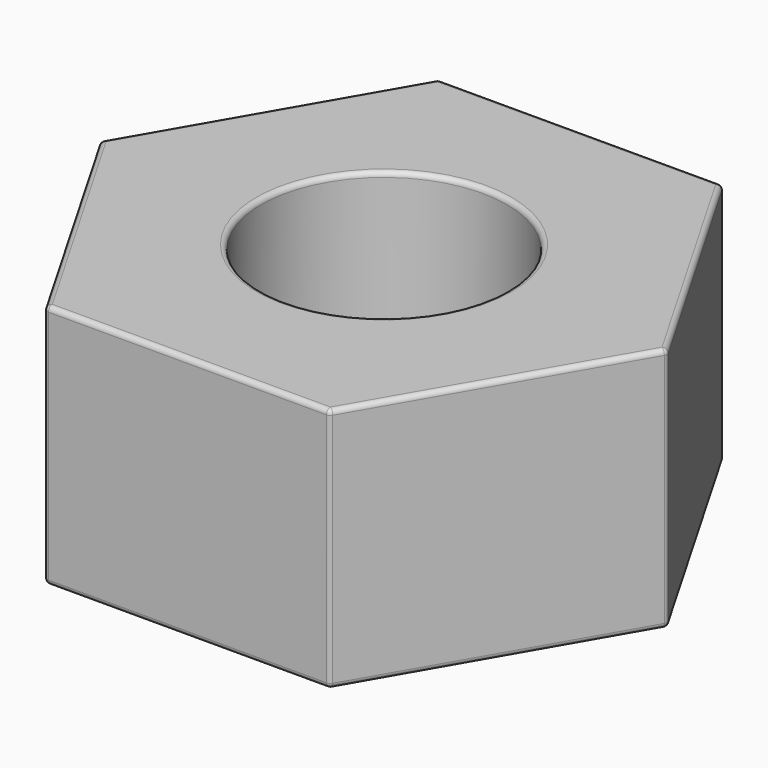
from build123d import *

# Parameters (mm, degrees)
F0_R     = 2.5
F1_DEPTH = 5
F2_R     = 0.1


with BuildPart() as f1:
    # F0 (on Top) → F1 (new body)
    with BuildSketch(Plane.XY):
        Polygon((-2.886751, -5), (2.886751, -5), (5.773503, 0), (2.886751, 5), (-2.886751, 5), (-5.773503, 0), align=None)
        Circle(F0_R, mode=Mode.SUBTRACT)
    extrude(amount=F1_DEPTH)

    # F2
    f2_edges = [f1.edges().sort_by_distance(p)[0] for p in [
        (2.886751, -5, 2.5),
        (5.773503, 0, 2.5),
        (2.886751, 5, 2.5),
        (2.5, 0, 2.5),
        (-2.5, 0, 0),
        (-2.5, 0, 5),
        (0, -5, 5),
        (-2.886751, -5, 2.5),
        (0, -5, 0),
        (4.330127, -2.5, 5),
        (4.330127, 2.5, 5),
        (0, 5, 5),
        (-4.330127, 2.5, 5),
        (-4.330127, -2.5, 5),
        (-2.886751, 5, 2.5),
        (-5.773503, 0, 2.5),
        (-4.330127, 2.5, 0),
        (0, 5, 0),
        (4.330127, -2.5, 0),
        (4.330127, 2.5, 0),
        (-4.330127, -2.5, 0),
    ]]
    fillet(f2_edges, radius=F2_R)


solid = f1.part
